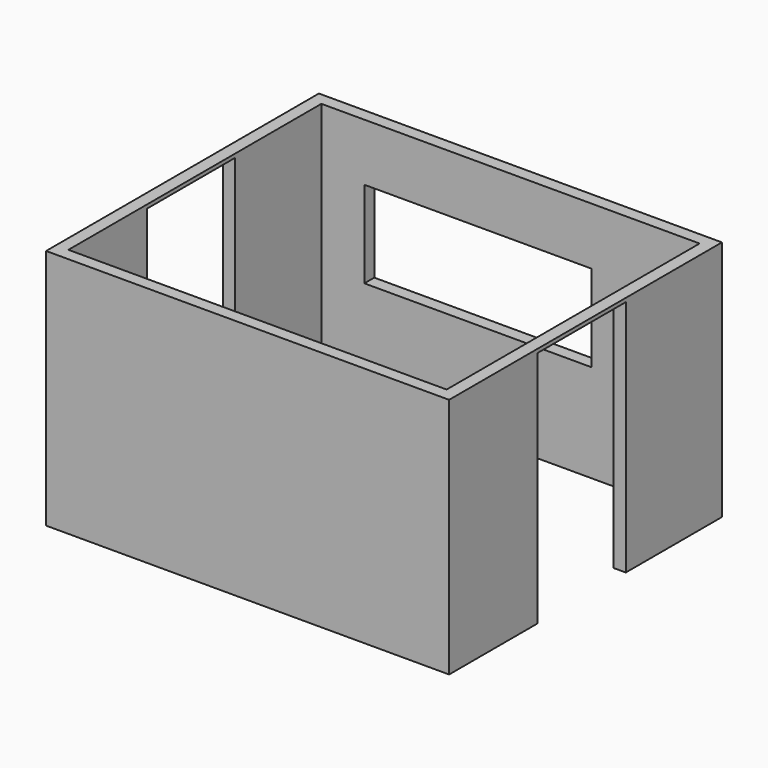
from build123d import *

# Parameters (mm, degrees)
F0_W     = 3250
F0_H     = 2750
F1_DEPTH = 1950
F2_T     = -100
F3_DEPTH = 200
F4_W     = 890
F4_H     = 1920
F5_DEPTH = 4000
F7_W     = 1830
F7_H     = 700
F8_DEPTH = 200


with BuildPart() as f1:
    # F0 (on Top) → F1 (new body)
    with BuildSketch(Plane.XY):
        with Locations((1574.9453641474, 1328.6207094789)):
            Rectangle(F0_W, F0_H)
    extrude(amount=F1_DEPTH)

    # F2
    f2_openings = [f1.faces().sort_by_distance(p)[0] for p in [
        (1574.945364, 1328.620709, 1950),
    ]]
    offset(amount=F2_T, openings=f2_openings)

    # F3 (cut): a face of the model
    f3_faces = [f1.faces().sort_by_distance(p)[0] for p in [
        (1574.9453641474, 1328.6207094789, 100),
    ]]
    extrude(f3_faces, amount=-F3_DEPTH, mode=Mode.SUBTRACT)

    # F4 (on face) → F5 (cut)
    with BuildSketch(Plane.YZ.offset(3199.9453641474)):
        with Locations((1289.667673111, 960)):
            Rectangle(F4_W, F4_H)
    extrude(amount=-F5_DEPTH, mode=Mode.SUBTRACT)

    # F7 (on face) → F8 (cut)
    with BuildSketch(Plane(origin=(0, 2703.6207094789, 0), x_dir=(-1, 0, 0), z_dir=(0, 1, 0))):
        with Locations((-1311.6826629639, 1138.0767583847)):
            Rectangle(F7_W, F7_H)
    extrude(amount=-F8_DEPTH, mode=Mode.SUBTRACT)


solid = f1.part
